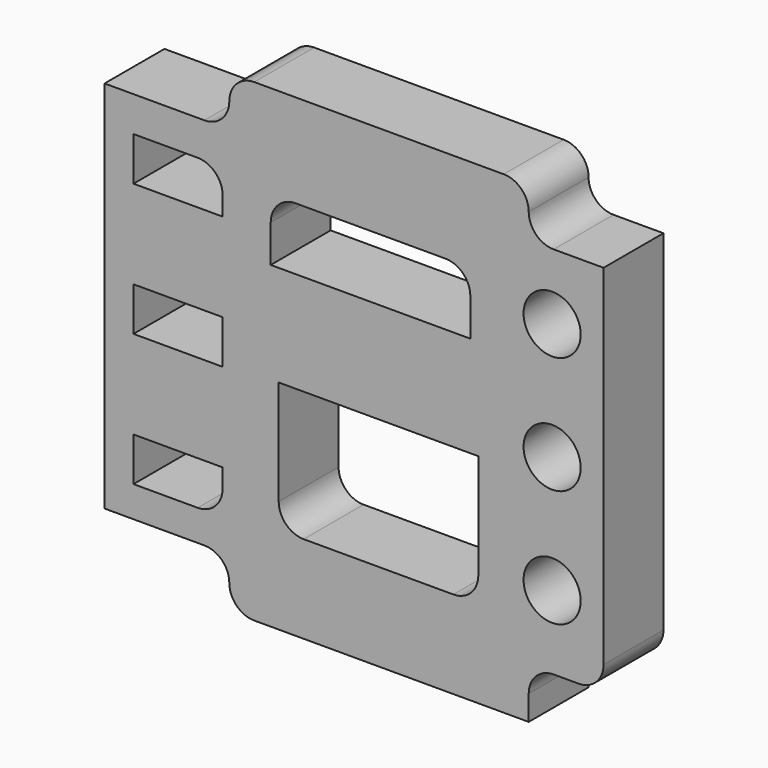
from build123d import *

# Parameters (mm, degrees)
F0_W     = 35.711557
F0_H     = 17.517656
F0_R     = 11.444367
F1_DEPTH = 30


with BuildPart() as f1:
    # F0 (on Front) → F1 (new body)
    with BuildSketch(Plane.XZ):
        with BuildLine():
            Line((78.263473, 120.906783), (-21.736527, 120.906783))
            ThreePointArc((-21.736527, 120.906783), (-28.807595, 117.977851), (-31.736527, 110.906783))
            ThreePointArc((-31.736527, 110.906783), (-34.66546, 103.835716), (-41.736527, 100.906783))
            Line((-41.736527, 100.906783), (-81.736527, 100.906783))
            Line((-81.736527, 100.906783), (-81.736527, -49.093217))
            Line((-81.736527, -49.093217), (-41.736527, -49.093217))
            ThreePointArc((-41.736527, -49.093217), (-34.66546, -52.022149), (-31.736527, -59.093217))
            ThreePointArc((-31.736527, -59.093217), (-28.807595, -66.164284), (-21.736527, -69.093217))
            Line((-21.736527, -69.093217), (88.263473, -69.093217))
            Line((88.263473, -69.093217), (88.263473, -59.093217))
            ThreePointArc((88.263473, -59.093217), (91.192405, -52.022149), (98.263473, -49.093217))
            Line((98.263473, -49.093217), (108.263473, -49.093217))
            ThreePointArc((108.263473, -49.093217), (115.33454, -46.164284), (118.263473, -39.093217))
            Line((118.263473, -39.093217), (118.263473, 100.906783))
            Line((118.263473, 100.906783), (98.263473, 100.906783))
            ThreePointArc((98.263473, 100.906783), (91.192405, 103.835716), (88.263473, 110.906783))
            ThreePointArc((88.263473, 110.906783), (85.33454, 117.977851), (78.263473, 120.906783))
        make_face()
        with BuildLine():
            Line((-44.423411, -36.690706), (-70.134968, -36.690706))
            Line((-70.134968, -36.690706), (-70.134968, -19.17305))
            Line((-70.134968, -19.17305), (-34.423411, -19.17305))
            Line((-34.423411, -19.17305), (-34.423411, -26.690706))
            ThreePointArc((-34.423411, -26.690706), (-37.352343, -33.761774), (-44.423411, -36.690706))
        make_face(mode=Mode.SUBTRACT)
        with Locations((-52.27919, 25.068122)):
            Rectangle(F0_W, F0_H, mode=Mode.SUBTRACT)
        with BuildLine():
            Line((-11.935867, -23.94169), (-11.935867, 18.100461))
            Line((-11.935867, 18.100461), (68.064133, 18.100461))
            Line((68.064133, 18.100461), (68.064133, -23.94169))
            ThreePointArc((68.064133, -23.94169), (65.1352, -31.012758), (58.064133, -33.94169))
            Line((58.064133, -33.94169), (-1.935867, -33.94169))
            ThreePointArc((-1.935867, -33.94169), (-9.006935, -31.012758), (-11.935867, -23.94169))
        make_face(mode=Mode.SUBTRACT)
        with Locations((97.641997, -19.637536)):
            Circle(F0_R, mode=Mode.SUBTRACT)
        with BuildLine():
            Line((-70.134968, 69.309294), (-70.134968, 86.82695))
            Line((-70.134968, 86.82695), (-44.423411, 86.82695))
            ThreePointArc((-44.423411, 86.82695), (-37.352343, 83.898018), (-34.423411, 76.82695))
            Line((-34.423411, 76.82695), (-34.423411, 69.309294))
            Line((-34.423411, 69.309294), (-70.134968, 69.309294))
        make_face(mode=Mode.SUBTRACT)
        with BuildLine():
            ThreePointArc((-15.134968, 73.529198), (-12.206035, 80.600266), (-5.134968, 83.529198))
            Line((-5.134968, 83.529198), (54.865032, 83.529198))
            ThreePointArc((54.865032, 83.529198), (61.9361, 80.600266), (64.865032, 73.529198))
            Line((64.865032, 73.529198), (64.865032, 58.529198))
            Line((64.865032, 58.529198), (-15.134968, 58.529198))
            Line((-15.134968, 58.529198), (-15.134968, 73.529198))
        make_face(mode=Mode.SUBTRACT)
        with Locations((97.641997, 27.362464)):
            Circle(F0_R, mode=Mode.SUBTRACT)
        with Locations((97.641997, 74.362464)):
            Circle(F0_R, mode=Mode.SUBTRACT)
    extrude(amount=F1_DEPTH)


solid = f1.part
